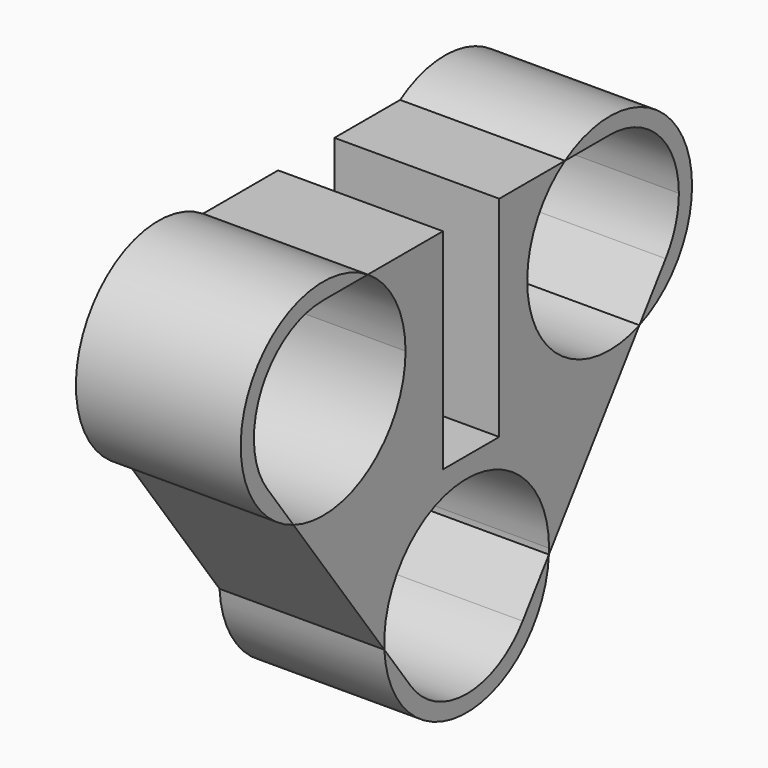
from build123d import *

# Parameters (mm, degrees)
F1_DEPTH = 25.4


with BuildPart() as f1:
    # F0 (on Right) → F1 (new body)
    with BuildSketch(Plane.YZ):
        with BuildLine():
            Line((-4.5691584237, 13.335), (-19.0324015576, 13.335))
            ThreePointArc((-19.0324015576, 13.335), (-13.7040117879, 7.5919488482), (-11.7709606361, 0))
            ThreePointArc((-11.7709606361, 0), (-18.663843779, -13.0895837125), (-33.3567498349, -14.8122419548))
            Line((-33.3567498349, -14.8122419548), (-15.8503038291, -38.8581516965))
            ThreePointArc((-15.8503038291, -38.8581516965), (-0.4427480736, -22.1041752438), (15.875, -37.973))
            ThreePointArc((15.875, -37.973), (15.8691919243, -38.4023863878), (15.8517719471, -38.8314585824))
            Line((15.8517719471, -38.8314585824), (33.2839642315, -14.8026040021))
            ThreePointArc((33.2839642315, -14.8026040021), (13.4060446197, -7.21206994), (18.9346802853, 13.335))
            Line((18.9346802853, 13.335), (6.2826029025, 13.335))
            Line((6.2826029025, 13.335), (6.2826029025, -18.9864552424))
            Line((6.2826029025, -18.9864552424), (-4.5691584237, -18.9864552424))
            Line((-4.5691584237, -18.9864552424), (-4.5691584237, 13.335))
        make_face()
    extrude(amount=F1_DEPTH)


with BuildPart() as f1b:
    # F0 (on Right) → F1, piece 2 (new body)
    with BuildSketch(Plane.YZ):
        with BuildLine():
            Line((-10.7805465139, -45.8216968256), (-15.8503038291, -38.8581516965))
            ThreePointArc((-15.8503038291, -38.8581516965), (0.0133667284, -53.8479943726), (15.8517719471, -38.8314585824))
            Line((15.8517719471, -38.8314585824), (10.7937484074, -45.8035312922))
            ThreePointArc((10.7937484074, -45.8035312922), (0.0112280519, -51.307995273), (-10.7805465139, -45.8216968256))
        make_face()
    extrude(amount=F1_DEPTH)


with BuildPart() as f1c:
    # F0 (on Right) → F1, piece 3 (new body)
    with BuildSketch(Plane.YZ):
        with BuildLine():
            ThreePointArc((-38.4265071501, -7.8486968256), (-39.5305009548, 6.0481341267), (-27.6459606361, 13.335))
            Line((-27.6459606361, 13.335), (-19.0324015576, 13.335))
            ThreePointArc((-19.0324015576, 13.335), (-41.7942229202, 7.2001596747), (-33.3567498349, -14.8122419548))
            Line((-33.3567498349, -14.8122419548), (-38.4265071501, -7.8486968256))
        make_face()
    extrude(amount=F1_DEPTH)


with BuildPart() as f1d:
    # F0 (on Right) → F1, piece 4 (new body)
    with BuildSketch(Plane.YZ):
        with BuildLine():
            ThreePointArc((43.4232393639, 0), (35.1401882121, 13.9419488482), (18.9346802853, 13.335))
            Line((18.9346802853, 13.335), (27.5482393639, 13.335))
            ThreePointArc((27.5482393639, 13.335), (36.977508291, 9.4292689271), (40.8832393639, 0))
            ThreePointArc((40.8832393639, 0), (40.2320254708, -4.1162841245), (38.3419877712, -7.8305312922))
            Line((38.3419877712, -7.8305312922), (33.2839642315, -14.8026040021))
            ThreePointArc((33.2839642315, -14.8026040021), (40.6453813665, -8.9710922614), (43.4232393639, 0))
        make_face()
    extrude(amount=F1_DEPTH)


solid = Compound([f1.part, f1b.part, f1c.part, f1d.part])
